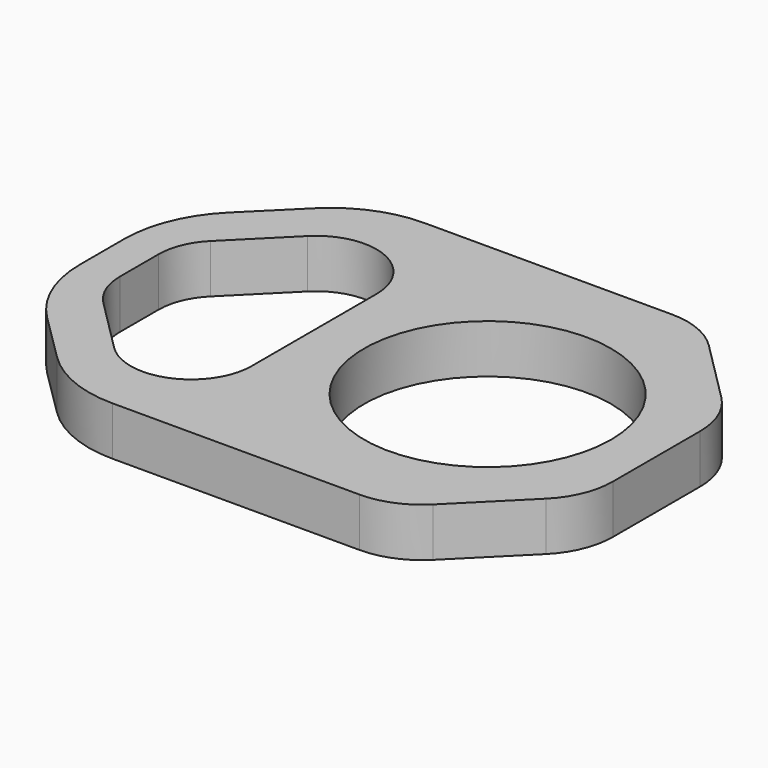
from build123d import *

# Parameters (mm, degrees)
F0_R     = 16.07185
F1_DEPTH = 6.35


with BuildPart() as f1:
    # F0 (on Top) → F1 (new body)
    with BuildSketch(Plane.XY):
        with BuildLine():
            ThreePointArc((69.431615, -39.890337), (71.634026, -36.594196), (72.40741, -32.706132))
            Line((72.40741, -32.706132), (72.40741, -18.516952))
            ThreePointArc((72.40741, -18.516952), (71.634026, -14.628888), (69.431615, -11.332747))
            Line((69.431615, -11.332747), (61.286205, -3.187337))
            ThreePointArc((61.286205, -3.187337), (57.990064, -0.984926), (54.102, -0.211542))
            Line((54.102, -0.211542), (21.914013, -0.211542))
            ThreePointArc((21.914013, -0.211542), (16.111142, -1.359548), (11.182513, -4.630613))
            Line((11.182513, -4.630613), (4.930193, -10.831261))
            ThreePointArc((4.930193, -10.831261), (1.482689, -15.956217), (0.27141, -22.012888))
            Line((0.27141, -22.012888), (0.27141, -29.210196))
            ThreePointArc((0.27141, -29.210196), (1.482689, -35.266867), (4.930193, -40.391823))
            Line((4.930193, -40.391823), (11.182513, -46.592471))
            ThreePointArc((11.182513, -46.592471), (16.111142, -49.863535), (21.914013, -51.011542))
            Line((21.914013, -51.011542), (54.102, -51.011542))
            ThreePointArc((54.102, -51.011542), (57.990064, -50.238158), (61.286205, -48.035747))
            Line((61.286205, -48.035747), (69.431615, -39.890337))
        make_face()
        with BuildLine():
            Line((27.85581, -15.451542), (27.85581, -35.771542))
            ThreePointArc((27.85581, -35.771542), (25.549569, -41.339301), (19.98181, -43.645542))
            ThreePointArc((19.98181, -43.645542), (16.96856, -43.046169), (14.414051, -41.339301))
            Line((14.414051, -41.339301), (7.403651, -34.328901))
            ThreePointArc((7.403651, -34.328901), (5.696782, -31.774391), (5.09741, -28.761142))
            Line((5.09741, -28.761142), (5.09741, -22.461942))
            ThreePointArc((5.09741, -22.461942), (5.696782, -19.448693), (7.403651, -16.894183))
            Line((7.403651, -16.894183), (14.414051, -9.883783))
            ThreePointArc((14.414051, -9.883783), (22.995059, -8.176915), (27.85581, -15.451542))
        make_face(mode=Mode.SUBTRACT)
        with Locations((50.43641, -25.611542)):
            Circle(F0_R, mode=Mode.SUBTRACT)
    extrude(amount=F1_DEPTH)


solid = f1.part
